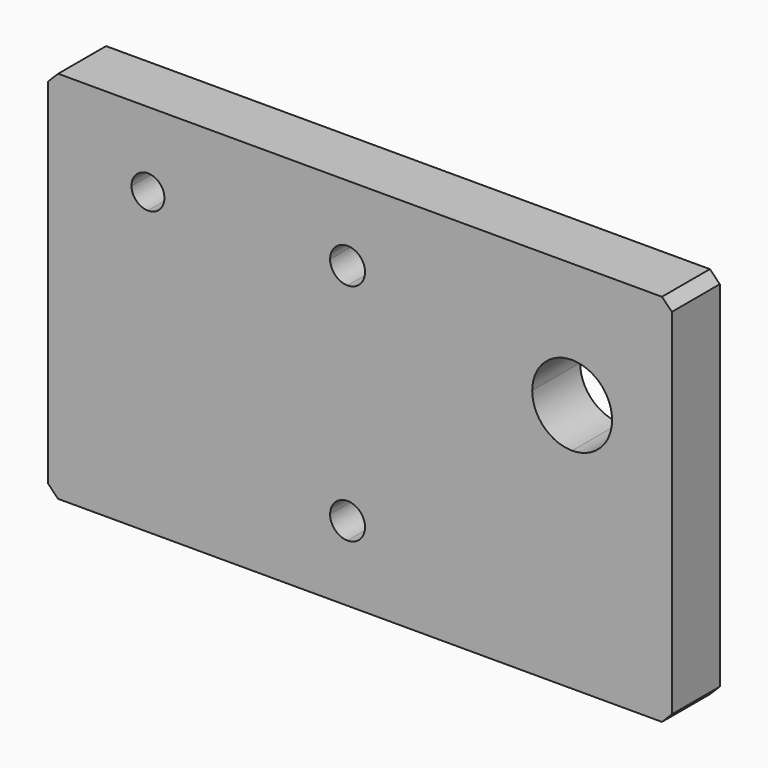
from build123d import *

# Parameters (mm, degrees)
F1_DEPTH = 12


with BuildPart() as f1:
    # F0 (on Front) → F1 (new body)
    with BuildSketch(Plane.XZ):
        Polygon((-140.078467, -134.412854), (-19.078467, -134.412854), (-17.078467, -132.412854), (-17.078467, -61.412854), (-19.078467, -59.412854), (-140.078467, -59.412854), (-142.078467, -61.412854), (-142.078467, -132.412854), align=None)
        with BuildLine():
            ThreePointArc((-82.078467, -115.912854), (-79.603593, -116.93798), (-78.578467, -119.412854))
            ThreePointArc((-78.578467, -119.412854), (-79.603593, -121.887728), (-82.078467, -122.912854))
            ThreePointArc((-82.078467, -122.912854), (-84.553341, -121.887728), (-85.578467, -119.412854))
            ThreePointArc((-85.578467, -119.412854), (-84.553341, -116.93798), (-82.078467, -115.912854))
        make_face(mode=Mode.SUBTRACT)
        with BuildLine():
            ThreePointArc((-125.378467, -74.412854), (-124.411919, -72.079402), (-122.078467, -71.112854))
            ThreePointArc((-122.078467, -71.112854), (-119.745015, -72.079402), (-118.778467, -74.412854))
            ThreePointArc((-118.778467, -74.412854), (-119.745015, -76.746306), (-122.078467, -77.712854))
            ThreePointArc((-122.078467, -77.712854), (-124.411919, -76.746306), (-125.378467, -74.412854))
        make_face(mode=Mode.SUBTRACT)
        with BuildLine():
            ThreePointArc((-82.078467, -70.912854), (-79.603593, -71.93798), (-78.578467, -74.412854))
            ThreePointArc((-78.578467, -74.412854), (-79.603593, -76.887728), (-82.078467, -77.912854))
            ThreePointArc((-82.078467, -77.912854), (-84.553341, -76.887728), (-85.578467, -74.412854))
            ThreePointArc((-85.578467, -74.412854), (-84.553341, -71.93798), (-82.078467, -70.912854))
        make_face(mode=Mode.SUBTRACT)
        with BuildLine():
            ThreePointArc((-45.078467, -84.412854), (-42.735321, -78.756), (-37.078467, -76.412854))
            ThreePointArc((-37.078467, -76.412854), (-31.421613, -78.756), (-29.078467, -84.412854))
            ThreePointArc((-29.078467, -84.412854), (-31.421613, -90.069708), (-37.078467, -92.412854))
            ThreePointArc((-37.078467, -92.412854), (-42.735321, -90.069708), (-45.078467, -84.412854))
        make_face(mode=Mode.SUBTRACT)
    extrude(amount=-F1_DEPTH)


solid = f1.part
